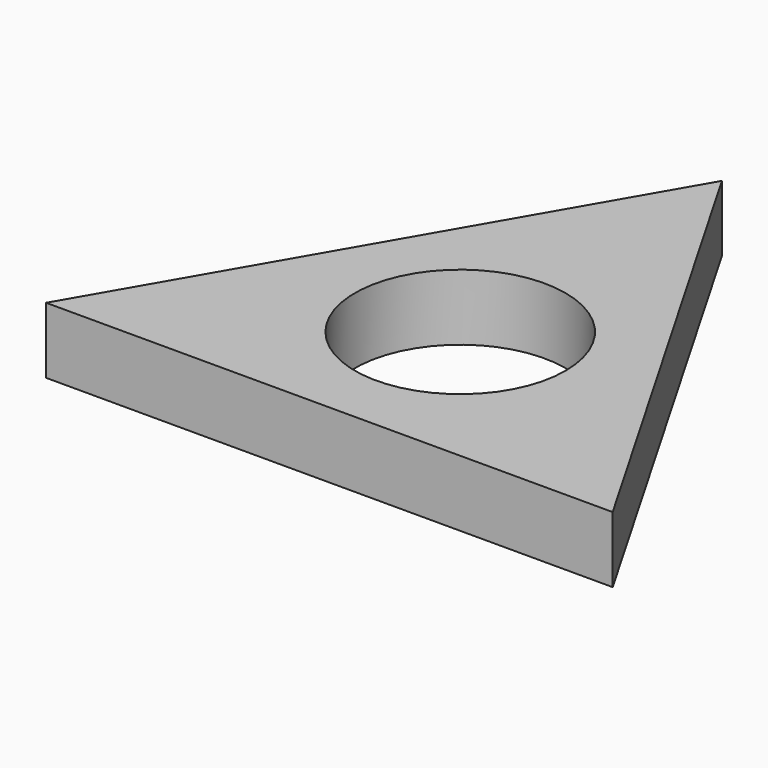
from build123d import *

# Parameters (mm, degrees)
F0_R     = 11.15
F1_DEPTH = 7


with BuildPart() as f1:
    # F0 (on Top) → F1 (new body)
    with BuildSketch(Plane.XY):
        Polygon((-30, -17.320508), (30, -17.320508), (0, 34.641016), align=None)
        Circle(F0_R, mode=Mode.SUBTRACT)
    extrude(amount=F1_DEPTH)


solid = f1.part
